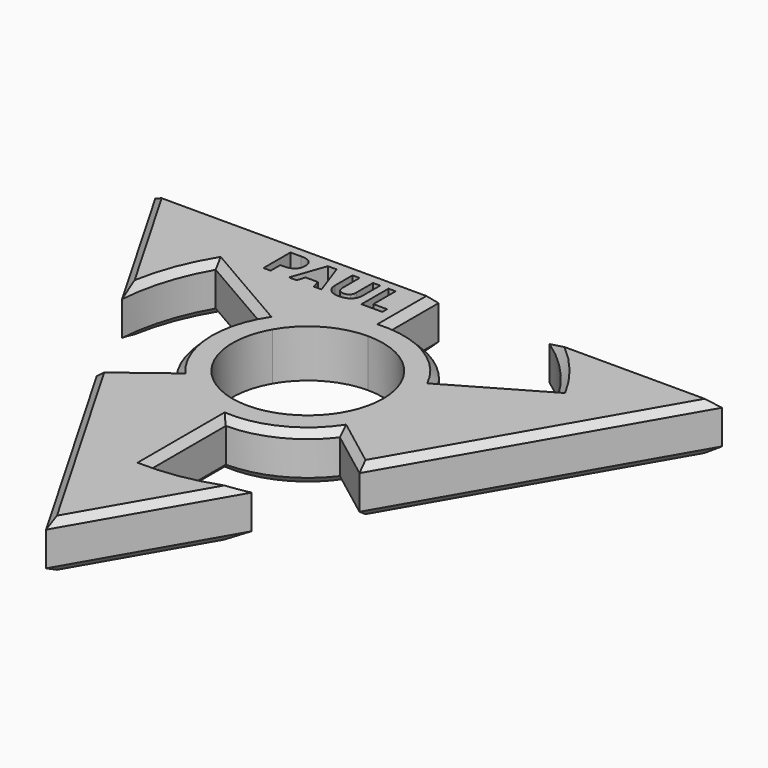
from build123d import *

# Parameters (mm, degrees)
F1_DEPTH = 7
F2_SIZE  = 1
F3_SIZE  = 1


with BuildPart() as f1:
    # F0 (on Top) → F1 (new body)
    with BuildSketch(Plane.XY):
        with BuildLine():
            ThreePointArc((9.5695807118, 5.525), (10.6734803805, 2.8599504484), (11.05, 0))
            ThreePointArc((11.05, 0), (10.4737971003, -3.5216578911), (8.8052806693, -6.6760416667))
            Line((8.8052806693, -6.6760416667), (11.9840638306, -9.0861509672))
            ThreePointArc((11.9840638306, -9.0861509672), (14.2549292536, -4.7930071218), (15.0391464284, 0))
            ThreePointArc((15.0391464284, 0), (14.5266999405, 3.8924175178), (13.0242828582, 7.5195732142))
            Line((13.0242828582, 7.5195732142), (9.5695807118, 5.525))
        make_face()
        with BuildLine():
            ThreePointArc((0, 11.05), (5.525, 9.5695807118), (9.5695807118, 5.525))
            Line((9.5695807118, 5.525), (13.0242828582, 7.5195732142))
            ThreePointArc((13.0242828582, 7.5195732142), (7.5195732142, 13.0242828582), (0, 15.0391464284))
            Line((0, 15.0391464284), (0, 11.05))
        make_face()
        with BuildLine():
            Line((11.9840638306, -9.0861509672), (8.8052806693, -6.6760416667))
            ThreePointArc((8.8052806693, -6.6760416667), (4.9159047785, -9.8962811302), (0, -11.05))
            Line((0, -11.05), (0, -15.0391464284))
            ThreePointArc((0, -15.0391464284), (6.6905893025, -13.4689249786), (11.9840638306, -9.0861509672))
        make_face()
        with BuildLine():
            ThreePointArc((-9.5695807118, 5.525), (-5.525, 9.5695807118), (0, 11.05))
            Line((0, 11.05), (0, 15.0391464284))
            ThreePointArc((0, 15.0391464284), (-7.5195732142, 13.0242828582), (-13.0242828582, 7.5195732142))
            Line((-13.0242828582, 7.5195732142), (-9.5695807118, 5.525))
        make_face()
        with BuildLine():
            Line((25.1147367097, 14.5), (13.0242828582, 7.5195732142))
            ThreePointArc((13.0242828582, 7.5195732142), (14.5266999405, 3.8924175178), (15.0391464284, 0))
            ThreePointArc((15.0391464284, 0), (14.2549292536, -4.7930071218), (11.9840638306, -9.0861509672))
            Line((11.9840638306, -9.0861509672), (19.2752742891, -14.6142456014))
            Line((19.2752742891, -14.6142456014), (41.5692193817, 24))
            Line((41.5692193817, 24), (16.2788205961, 24))
            ThreePointArc((16.2788205961, 24), (21.2348568775, 19.7504646374), (25.1147367097, 14.5))
        make_face()
        with BuildLine():
            Line((0, -15.0391464284), (0, -11.05))
            ThreePointArc((0, -11.05), (-4.9159047785, -9.8962811302), (-8.8052806693, -6.6760416667))
            Line((-8.8052806693, -6.6760416667), (-11.9840638306, -9.0861509672))
            ThreePointArc((-11.9840638306, -9.0861509672), (-6.6905893025, -13.4689249786), (0, -15.0391464284))
        make_face()
        with BuildLine():
            ThreePointArc((-8.8052806693, -6.6760416667), (-11.028383251, -0.6908421443), (-9.5695807118, 5.525))
            Line((-9.5695807118, 5.525), (-13.0242828582, 7.5195732142))
            ThreePointArc((-13.0242828582, 7.5195732142), (-15.0097258444, -0.9402421871), (-11.9840638306, -9.0861509672))
            Line((-11.9840638306, -9.0861509672), (-8.8052806693, -6.6760416667))
        make_face()
        with BuildLine():
            ThreePointArc((-13.0242828582, 7.5195732142), (-7.5195732142, 13.0242828582), (0, 15.0391464284))
            Line((0, 15.0391464284), (0, 24))
            Line((0, 24), (-41.5692193817, 24))
            Line((-41.5692193817, 24), (-28.9240199889, 2.0978721799))
            ThreePointArc((-28.9240199889, 2.0978721799), (-27.7218325513, 8.514693183), (-25.1147367097, 14.5))
            Line((-25.1147367097, 14.5), (-13.0242828582, 7.5195732142))
        make_face()
        with BuildLine():
            add(Edge.make_bspline(
                [(-16.9558289563, 21.3208617303), (-16.4874368687, 20.9331522104), (-16.4874368687, 20.165314083)],
                knots=[0, 0, 0, 1, 1, 1], degree=2))
            add(Edge.make_bspline(
                [(-16.4874368687, 20.165314083), (-16.4874368687, 19.3660693185), (-16.9866940996, 18.9431627053)],
                knots=[0, 0, 0, 1, 1, 1], degree=2))
            add(Edge.make_bspline(
                [(-16.9866940996, 18.9431627053), (-17.4859513306, 18.5202560921), (-18.4064906935, 18.5202560921)],
                knots=[0, 0, 0, 1, 1, 1], degree=2))
            Line((-18.4064906935, 18.5202560921), (-18.8559305, 18.5202560921))
            Line((-18.8559305, 18.5202560921), (-18.8559305, 16.7604014277))
            Line((-18.8559305, 16.7604014277), (-19.9053453737, 16.7604014277))
            Line((-19.9053453737, 16.7604014277), (-19.9053453737, 21.7085712502))
            Line((-19.9053453737, 21.7085712502), (-18.325266632, 21.7085712502))
            add(Edge.make_bspline(
                [(-18.325266632, 21.7085712502), (-17.4242210439, 21.7085712502), (-16.9558289563, 21.3208617303)],
                knots=[0, 0, 0, 1, 1, 1], degree=2))
        make_face(mode=Mode.SUBTRACT)
        Polygon((-11.3930637356, 16.7604014277), (-12.5237026708, 16.7604014277), (-12.8821715286, 17.9386918123), (-14.6864286799, 17.9386918123), (-15.0448975376, 16.7604014277), (-16.1755364728, 16.7604014277), (-14.4286776582, 21.7291480124), (-13.1464204751, 21.7291480124), align=None, mode=Mode.SUBTRACT)
        with BuildLine():
            Line((-7.788881383, 21.7085712502), (-6.7427154718, 21.7085712502))
            Line((-6.7427154718, 21.7085712502), (-6.7427154718, 18.5072602423))
            add(Edge.make_bspline(
                [(-6.7427154718, 18.5072602423), (-6.7427154718, 17.958185587), (-6.9880121373, 17.5455673549)],
                knots=[0, 0, 0, 1, 1, 1], degree=2))
            add(Edge.make_bspline(
                [(-6.9880121373, 17.5455673549), (-7.2333088028, 17.1329491228), (-7.6973689405, 16.9125611695)],
                knots=[0, 0, 0, 1, 1, 1], degree=2))
            add(Edge.make_bspline(
                [(-7.6973689405, 16.9125611695), (-8.1614290781, 16.6921732161), (-8.7938937698, 16.6921732161)],
                knots=[0, 0, 0, 1, 1, 1], degree=2))
            add(Edge.make_bspline(
                [(-8.7938937698, 16.6921732161), (-9.7480057448, 16.6921732161), (-10.2759621441, 17.1816835597)],
                knots=[0, 0, 0, 1, 1, 1], degree=2))
            add(Edge.make_bspline(
                [(-10.2759621441, 17.1816835597), (-10.8039185434, 17.6711939033), (-10.8039185434, 18.5202560921)],
                knots=[0, 0, 0, 1, 1, 1], degree=2))
            Line((-10.8039185434, 18.5202560921), (-10.8039185434, 21.7085712502))
            Line((-10.8039185434, 21.7085712502), (-9.7588356196, 21.7085712502))
            Line((-9.7588356196, 21.7085712502), (-9.7588356196, 18.6794552525))
            add(Edge.make_bspline(
                [(-9.7588356196, 18.6794552525), (-9.7588356196, 18.10763786), (-9.5287007789, 17.8401399511)],
                knots=[0, 0, 0, 1, 1, 1], degree=2))
            add(Edge.make_bspline(
                [(-9.5287007789, 17.8401399511), (-9.2985659382, 17.5726420421), (-8.7668190827, 17.5726420421)],
                knots=[0, 0, 0, 1, 1, 1], degree=2))
            add(Edge.make_bspline(
                [(-8.7668190827, 17.5726420421), (-8.2524000269, 17.5726420421), (-8.020640705, 17.8417644323)],
                knots=[0, 0, 0, 1, 1, 1], degree=2))
            add(Edge.make_bspline(
                [(-8.020640705, 17.8417644323), (-7.788881383, 18.1108868225), (-7.788881383, 18.6859531774)],
                knots=[0, 0, 0, 1, 1, 1], degree=2))
            Line((-7.788881383, 18.6859531774), (-7.788881383, 21.7085712502))
        make_face(mode=Mode.SUBTRACT)
        Polygon((-2.4746617904, 16.7604014277), (-5.5308524752, 16.7604014277), (-5.5308524752, 21.7085712502), (-4.4814376015, 21.7085712502), (-4.4814376015, 17.6267914164), (-2.4746617904, 17.6267914164), align=None, mode=Mode.SUBTRACT)
        with BuildLine():
            Line((0, -29), (0, -15.0391464284))
            ThreePointArc((0, -15.0391464284), (-6.6905893025, -13.4689249786), (-11.9840638306, -9.0861509672))
            Line((-11.9840638306, -9.0861509672), (-19.2752742891, -14.6142456014))
            Line((-19.2752742891, -14.6142456014), (0, -48))
            Line((0, -48), (12.6451993928, -26.0978721799))
            ThreePointArc((12.6451993928, -26.0978721799), (6.4869756738, -28.2651578203), (0, -29))
        make_face()
    extrude(amount=F1_DEPTH)

    # F2
    f2_edges = [f1.edges().sort_by_distance(p)[0] for p in [
        (-20.78461, 24, 7),
        (-35.24662, 13.048936, 7),
        (-19.06951, 11.009787, 7),
        (-15.009726, -0.940242, 7),
        (-27.721833, 8.514693, 7),
        (-15.629669, -11.850198, 7),
        (-9.637637, -31.307123, 7),
        (6.3226, -37.048936, 7),
        (6.690589, -13.468925, 7),
        (0, -22.019573, 7),
        (6.486976, -28.265158, 7),
        (15.629669, -11.850198, 7),
        (30.422247, 4.692877, 7),
        (28.92402, 24, 7),
        (21.234857, 19.750465, 7),
        (19.06951, 11.009787, 7),
        (7.519573, 13.024283, 7),
        (0, 19.519573, 7),
    ]]
    chamfer(f2_edges, length=F2_SIZE)

    # F3
    f3_edges = [f1.edges().sort_by_distance(p)[0] for p in [
        (-9.637637, -31.307123, 0),
        (6.3226, -37.048936, 0),
        (0, -22.019573, 0),
        (6.486976, -28.265158, 0),
        (6.690589, -13.468925, 0),
        (15.629669, -11.850198, 0),
        (30.422247, 4.692877, 0),
        (28.92402, 24, 0),
        (21.234857, 19.750465, 0),
        (19.06951, 11.009787, 0),
        (7.519573, 13.024283, 0),
        (0, 19.519573, 0),
        (-20.78461, 24, 0),
        (-35.24662, 13.048936, 0),
        (-27.721833, 8.514693, 0),
        (-19.06951, 11.009787, 0),
        (-15.009726, -0.940242, 0),
        (-15.629669, -11.850198, 0),
    ]]
    chamfer(f3_edges, length=F3_SIZE)


solid = f1.part
